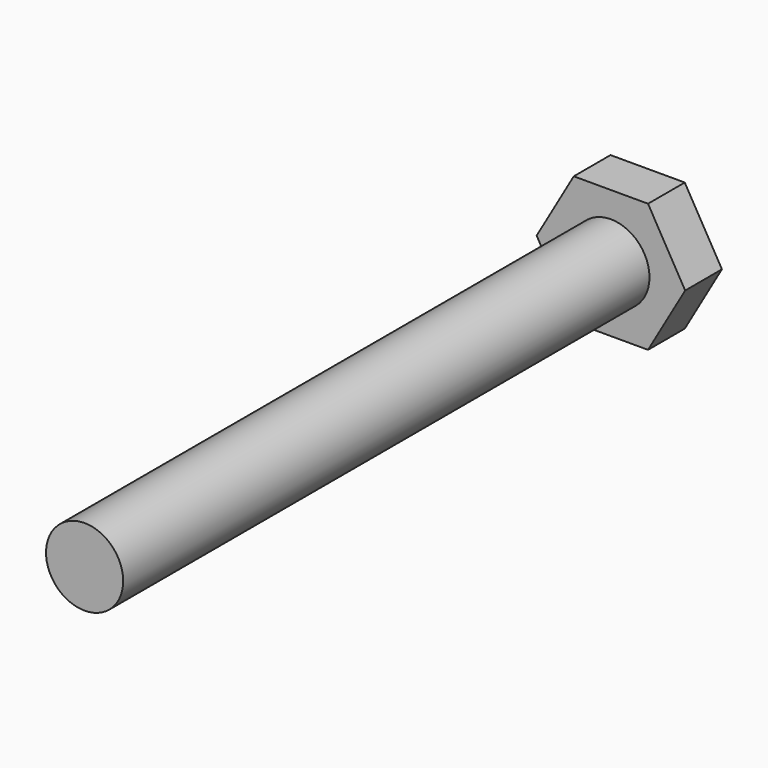
from build123d import *

# Parameters (mm, degrees)
F0_R     = 2.667
F1_DEPTH = 3.175
F2_DEPTH = 48.641


with BuildPart() as f1:
    # F0 (on Front) → F1 (new body)
    with BuildSketch(Plane.XZ):
        Polygon((2.566322, 4.445), (-2.566322, 4.445), (-5.132644, 0), (-2.566322, -4.445), (2.566322, -4.445), (5.132644, 0), align=None)
        Circle(F0_R, mode=Mode.SUBTRACT)
        Circle(F0_R)
    extrude(amount=F1_DEPTH)

    # F0 (on Front) → F2 (join)
    with BuildSketch(Plane.XZ):
        Circle(F0_R)
    extrude(amount=F2_DEPTH)


solid = f1.part
